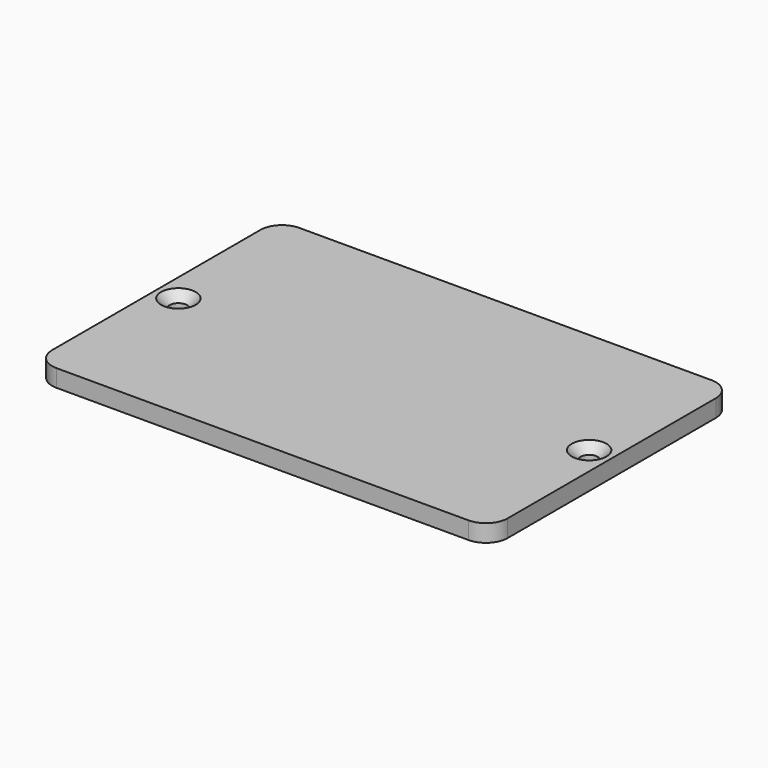
from build123d import *

# Parameters (mm, degrees)
F0_R     = 2
F1_DEPTH = 4
F2_SIZE  = 2


with BuildPart() as f1:
    # F0 (on Top) → F1 (new body)
    with BuildSketch(Plane.XY):
        with BuildLine():
            Line((-47.5, -35), (47.5, -35))
            ThreePointArc((47.5, -35), (51.035534, -33.535534), (52.5, -30))
            Line((52.5, -30), (52.5, 30))
            ThreePointArc((52.5, 30), (51.035534, 33.535534), (47.5, 35))
            Line((47.5, 35), (-47.5, 35))
            ThreePointArc((-47.5, 35), (-51.035534, 33.535534), (-52.5, 30))
            Line((-52.5, 30), (-52.5, -30))
            ThreePointArc((-52.5, -30), (-51.035534, -33.535534), (-47.5, -35))
        make_face()
        with Locations((-47.343245, -0.068288)):
            Circle(F0_R, mode=Mode.SUBTRACT)
        with Locations((47.343245, -0.068288)):
            Circle(F0_R, mode=Mode.SUBTRACT)
    extrude(amount=F1_DEPTH)

    # F2
    f2_edges = [f1.edges().sort_by_distance(p)[0] for p in [
        (-49.343245, -0.068288, 4),
        (45.343245, -0.068288, 4),
    ]]
    chamfer(f2_edges, length=F2_SIZE)


solid = f1.part
